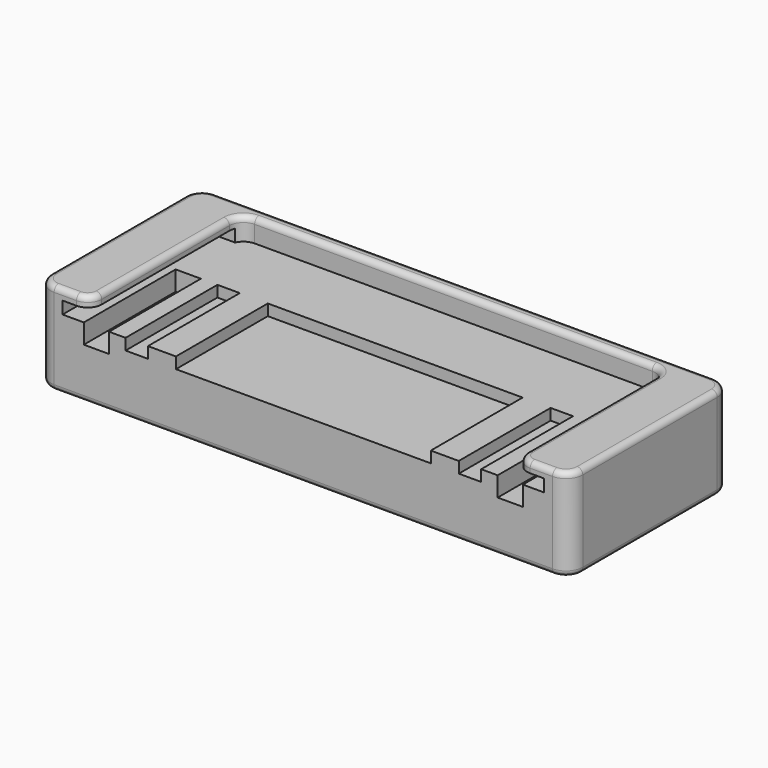
from build123d import *

# Parameters (mm, degrees)
PAD_DEPTH       = 16.5
SKETCH001_R     = 6.5
POCKET_DEPTH    = 1.5
SKETCH002_W     = 86
SKETCH002_H     = 2.2
POCKET001_DEPTH = 32
POCKET002_DEPTH = 4
SKETCH004_W     = 4
SKETCH004_H     = 2
SKETCH004_W_2   = 4.5
SKETCH004_H_2   = 3.5
SKETCH004_W_3   = 45.5
POCKET003_DEPTH = 20.5
FILLET_R        = 1


with BuildPart() as part:
    # Sketch → Pad (new body)
    with BuildSketch(Plane.XY):
        with BuildLine():
            Line((-47.5, 33), (-47.5, 3))
            ThreePointArc((-47.5, 3), (-46.62132, 0.87868), (-44.5, 0))
            Line((-44.5, 0), (44.5, 0))
            ThreePointArc((44.5, 0), (46.62132, 0.87868), (47.5, 3))
            Line((47.5, 3), (47.5, 33))
            ThreePointArc((47.5, 33), (46.62132, 35.12132), (44.5, 36))
            Line((44.5, 36), (-44.5, 36))
            ThreePointArc((-44.5, 36), (-46.62132, 35.12132), (-47.5, 33))
        make_face()
    extrude(amount=PAD_DEPTH)

    # Sketch001 (on Face9 of Pad) → Pocket (cut)
    with BuildSketch(Plane(origin=(0, 0, 0), x_dir=(1, 0, 0), z_dir=(0, 0, -1))):
        with Locations((-39.5, -28)):
            Circle(SKETCH001_R)
        with Locations((39.5, -28)):
            Circle(SKETCH001_R)
    extrude(amount=-POCKET_DEPTH, mode=Mode.SUBTRACT)

    # Sketch002 (on Face7 of Pocket) → Pocket001 (cut)
    with BuildSketch(Plane.XZ):
        with Locations((0, 13.6)):
            Rectangle(SKETCH002_W, SKETCH002_H)
    extrude(amount=-POCKET001_DEPTH, mode=Mode.SUBTRACT)

    # Sketch003 (on Face5 of Pocket001) → Pocket002 (cut)
    with BuildSketch(Plane.XY.offset(16.5)):
        with BuildLine():
            Line((-40.5, 0), (40.5, 0))
            ThreePointArc((38, 2.5), (38.732233, 0.732233), (40.5, 0))
            Line((38, 2.5), (38, 31))
            ThreePointArc((38, 31), (37.267767, 32.767767), (35.5, 33.5))
            Line((35.5, 33.5), (-35.5, 33.5))
            ThreePointArc((-35.5, 33.5), (-37.267767, 32.767767), (-38, 31))
            Line((-38, 31), (-38, 2.5))
            ThreePointArc((-40.5, 0), (-38.732233, 0.732233), (-38, 2.5))
        make_face()
    extrude(amount=-POCKET002_DEPTH, mode=Mode.SUBTRACT)

    # Sketch004 (on Face7 of Pocket002) → Pocket003 (cut)
    with BuildSketch(Plane.XZ):
        with Locations((-29.75, 11.5)):
            Rectangle(SKETCH004_W, SKETCH004_H)
        with Locations((29.75, 11.5)):
            Rectangle(SKETCH004_W, SKETCH004_H)
        with Locations((-36.95, 10.75)):
            Rectangle(SKETCH004_W_2, SKETCH004_H_2)
        with Locations((36.95, 10.75)):
            Rectangle(SKETCH004_W_2, SKETCH004_H_2)
        with Locations((0, 11.5)):
            Rectangle(SKETCH004_W_3, SKETCH004_H)
    extrude(amount=-POCKET003_DEPTH, mode=Mode.SUBTRACT)

    # Fillet
    fillet_edges = [part.edges().sort_by_distance(p)[0] for p in [
        (0, 0, 0),
        (0, 36, 16.5),
    ]]
    fillet(fillet_edges, radius=FILLET_R)


solid = part.part
